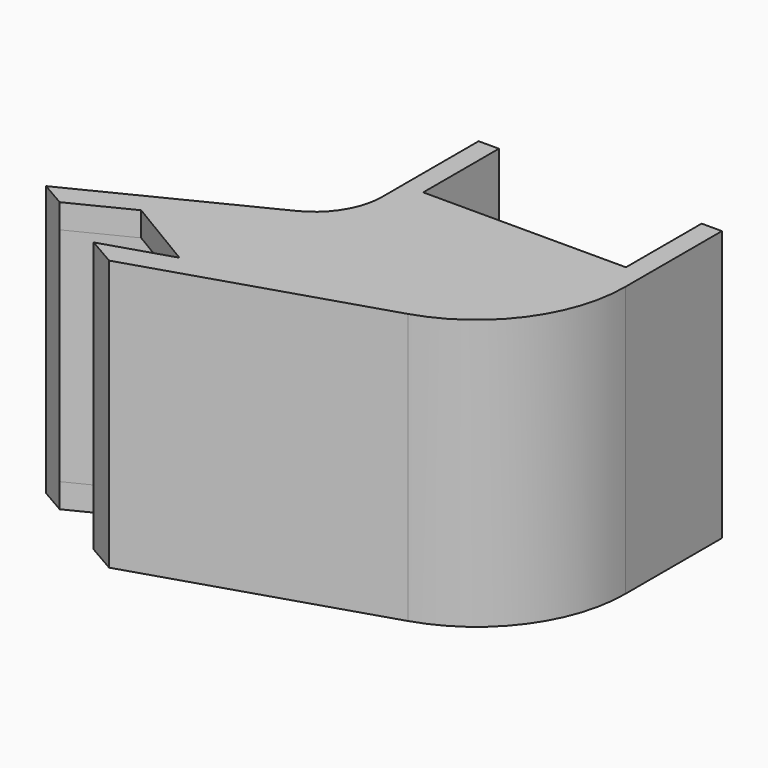
from build123d import *

# Parameters (mm, degrees)
PAD_DEPTH         = 20
FILLET_R          = 11
FILLET001_R       = 5
THICKNESS_T       = -1.8
SKETCH001_W       = 1.5
SKETCH001_H       = 20
PAD001_DEPTH      = 7
POCKET_DEPTH      = 1.801
POCKET_DEPTH_BACK = 18.201


with BuildPart() as part:
    # Sketch → Pad (new body)
    with BuildSketch(Plane.XY):
        Polygon((0, 0), (18, 0), (18, -10), (-7.339746, -18), (-16, -13), (0, -5), align=None)
    extrude(amount=PAD_DEPTH)

    # Fillet
    fillet_edges = [part.edges().sort_by_distance(p)[0] for p in [
        (18, -10, 10),
    ]]
    fillet(fillet_edges, radius=FILLET_R)

    # Fillet001
    fillet001_edges = [part.edges().sort_by_distance(p)[0] for p in [
        (0, -5, 10),
    ]]
    fillet(fillet001_edges, radius=FILLET001_R)

    # Thickness
    thickness_openings = [part.faces().sort_by_distance(p)[0] for p in [
        (9, 0, 10),
        (-11.669873, -15.5, 10),
    ]]
    offset(amount=THICKNESS_T, openings=thickness_openings)

    # Sketch001 → Pad001 (new body)
    with BuildSketch(Plane(origin=(0, 0, 0), x_dir=(-1, 0, 0), z_dir=(0, 1, 0))):
        with Locations((-17.25, 10)):
            Rectangle(SKETCH001_W, SKETCH001_H)
        with Locations((-0.75, 10)):
            Rectangle(SKETCH001_W, SKETCH001_H)
    extrude(amount=PAD001_DEPTH)

    # Sketch002 → Pocket (cut, two sides)
    with BuildSketch(Plane.XY.offset(1.8)) as pocket_sk:
        Polygon((-14.132027, -14.078475), (-9.826848, -11.925885), (-4.388537, -15.1807), (-9.45335, -16.77971), align=None)
    extrude(amount=-POCKET_DEPTH, mode=Mode.SUBTRACT)
    extrude(pocket_sk.sketch, amount=POCKET_DEPTH_BACK, mode=Mode.SUBTRACT)


solid = part.part
